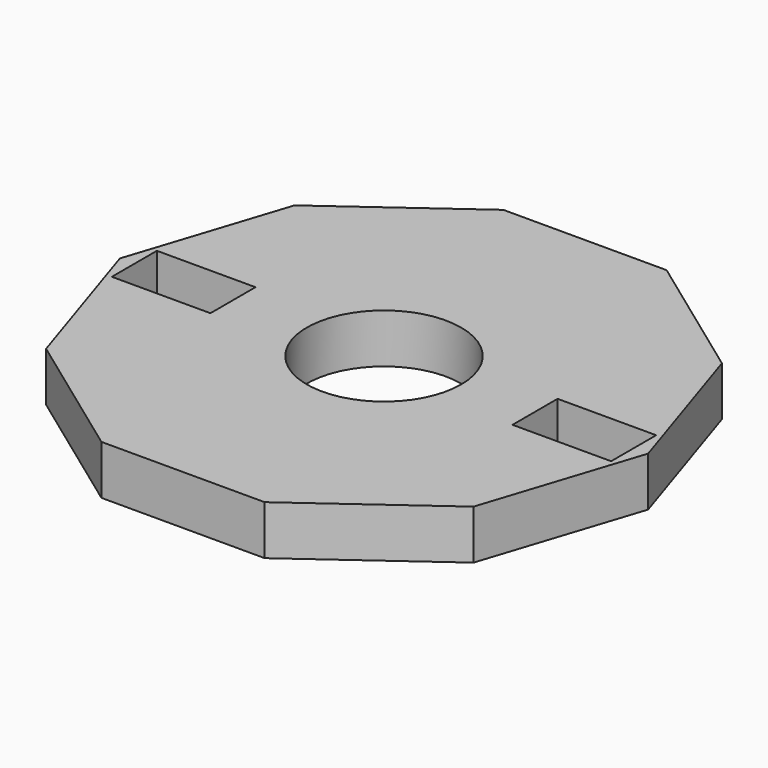
from build123d import *

# Parameters (mm, degrees)
F0_W     = 14
F0_H     = 8
F0_R     = 10.95
F1_DEPTH = 7


with BuildPart() as f1:
    # F0 (on Top) → F1 (new body)
    with BuildSketch(Plane.XY):
        Polygon((11.590146, 35.670802), (-11.590146, 35.670802), (-30.343396, 22.045768), (-37.506501, 0), (-30.343396, -22.045768), (-11.590146, -35.670802), (11.590146, -35.670802), (30.343396, -22.045768), (37.506501, 0), (30.343396, 22.045768), align=None)
        with Locations((-28.445819, 0)):
            Rectangle(F0_W, F0_H, mode=Mode.SUBTRACT)
        Circle(F0_R, mode=Mode.SUBTRACT)
        with Locations((28.445819, 0)):
            Rectangle(F0_W, F0_H, mode=Mode.SUBTRACT)
    extrude(amount=F1_DEPTH)


solid = f1.part
